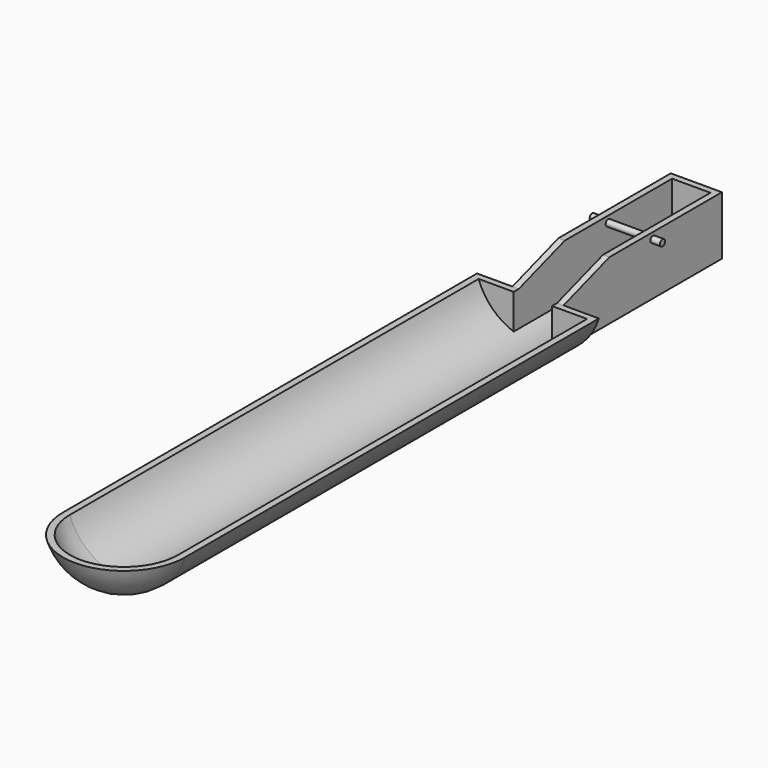
from build123d import *

# Parameters (mm, degrees)
F1_ANGLE_BACK = 90
F1_ANGLE      = 180
F3_DEPTH      = 1016
F5_DEPTH      = 12.7
F7_DEPTH      = 381
F9_DEPTH      = 12.7
F11_DEPTH     = 127
F12_R         = 6.35
F13_DEPTH     = 69.85


with BuildPart() as f1:
    # F0 (on Right) → F1 (revolve)
    with BuildSketch(Plane.YZ, mode=Mode.PRIVATE) as f1_sk:
        with BuildLine():
            Line((-622.3, 0), (-635, 0))
            ThreePointArc((-635, 0), (-597.8025612107, -89.8025612107), (-508, -127))
            Line((-508, -127), (-508, -114.3))
            ThreePointArc((-508, -114.3), (-588.8223050896, -80.8223050896), (-622.3, 0))
        make_face()
    revolve(f1_sk.sketch.rotate(Axis((0, -628.65, 0), (0, -1, 0)), -F1_ANGLE_BACK), axis=Axis((0, -628.65, 0), (0, -1, 0)), revolution_arc=F1_ANGLE)

    # F2 (on face) → F3 (join)
    with BuildSketch(Plane(origin=(0, -508, 0), x_dir=(-1, 0, 0), z_dir=(0, 1, 0))):
        with BuildLine():
            Line((-114.3, 0), (-127, 0))
            ThreePointArc((-127, 0), (0, -127), (127, 0))
            Line((127, 0), (114.3, 0))
            ThreePointArc((114.3, 0), (0, -114.3), (-114.3, 0))
        make_face()
    extrude(amount=F3_DEPTH)

    # F4 (on face) → F5 (join)
    with BuildSketch(Plane(origin=(0, 508, 0), x_dir=(-1, 0, 0), z_dir=(0, 1, 0))):
        with BuildLine():
            Line((-38.1, 0), (-127, 0))
            ThreePointArc((-127, 0), (0, -127), (127, 0))
            Line((127, 0), (38.1, 0))
            Line((38.1, 0), (38.1, -107.7630734528))
            ThreePointArc((38.1, -107.7630734528), (0, -114.3), (-38.1, -107.7630734528))
            Line((-38.1, -107.7630734528), (-38.1, 0))
        make_face()
    extrude(amount=F5_DEPTH)

    # F6 (on face) → F7 (join)
    with BuildSketch(Plane(origin=(0, 520.7, 0), x_dir=(-1, 0, 0), z_dir=(0, 1, 0))):
        with BuildLine():
            Line((-38.1, 0), (-50.8, 0))
            Line((-50.8, 0), (-50.8, -116.3974226519))
            ThreePointArc((-50.8, -116.3974226519), (0, -127), (50.8, -116.3974226519))
            Line((50.8, -116.3974226519), (50.8, 0))
            Line((50.8, 0), (38.1, 0))
            Line((38.1, 0), (38.1, -107.7630734528))
            ThreePointArc((38.1, -107.7630734528), (0, -114.3), (-38.1, -107.7630734528))
            Line((-38.1, -107.7630734528), (-38.1, 0))
        make_face()
    extrude(amount=F7_DEPTH)

    # F8 (on face) → F9 (join)
    with BuildSketch(Plane(origin=(0, 901.7, 0), x_dir=(-1, 0, 0), z_dir=(0, 1, 0))):
        with BuildLine():
            Line((-50.8, 0), (-50.8, -116.3974226519))
            ThreePointArc((-50.8, -116.3974226519), (0, -127), (50.8, -116.3974226519))
            Line((50.8, -116.3974226519), (50.8, 0))
            Line((50.8, 0), (-50.8, 0))
        make_face()
    extrude(amount=F9_DEPTH)

    # F10 (on Right) → F11 (cut, symmetric)
    with BuildSketch(Plane.YZ):
        with BuildLine():
            Line((635, 0), (-635, 0))
            ThreePointArc((-635, 0), (-633.5290511787, -19.2732278089), (-629.15027858, -38.1))
            Line((-629.15027858, -38.1), (520.7, -38.1))
            Line((520.7, -38.1), (635, 0))
        make_face()
    extrude(amount=F11_DEPTH, both=True, mode=Mode.SUBTRACT)

    # F12 (on Right) → F13 (join, symmetric)
    with BuildSketch(Plane.YZ):
        with Locations((742.95, -12.7)):
            Circle(F12_R)
    extrude(amount=F13_DEPTH, both=True)


solid = f1.part
